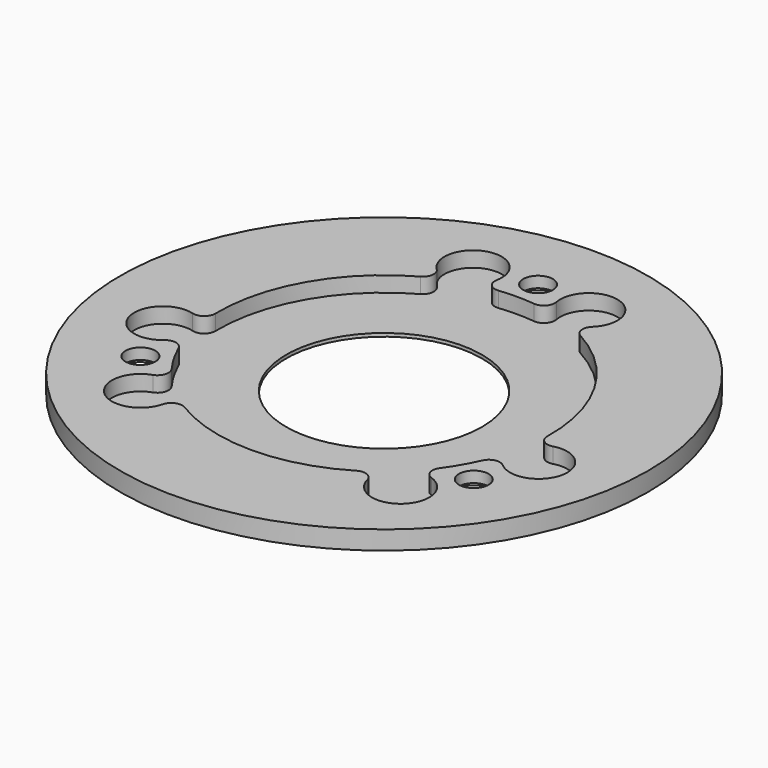
from build123d import *

# Parameters (mm, degrees)
SKETCH_W         = 15.1
SKETCH_H         = 1.7
POCKET_DEPTH     = 5.2
HOLE_D           = 2.7
HOLE_CBORE_D     = 4.7
HOLE_CBORE_DEPTH = 0.7


with BuildPart() as part:
    # Sketch → Revolution (revolve)
    with BuildSketch(Plane.XZ):
        with Locations((16.45, 0.85)):
            Rectangle(SKETCH_W, SKETCH_H)
    revolve(axis=Axis((0, 0, 0), (0, 0, 1)))

    # Sketch001 → Pocket (cut)
    with BuildSketch(Plane.XY.offset(0.3)):
        with BuildLine():
            ThreePointArc((-16.371276, -1.287625), (-19.62355, -4.350436), (-15.381589, -5.751816))
            ThreePointArc((-13.811681, -6.103071), (-14.508018, -5.531376), (-15.381589, -5.751816))
            ThreePointArc((-13.811681, -6.103071), (-13.076984, -7.55), (-12.191255, -8.909731))
            ThreePointArc((-12.672013, -10.444939), (-12.044321, -9.798624), (-12.191255, -8.909731))
            ThreePointArc((-12.672013, -10.444939), (-13.579363, -14.819274), (-9.300754, -13.534129))
            ThreePointArc((-7.813289, -12.921398), (-8.711606, -12.852495), (-9.300754, -13.534129))
            ThreePointArc((-7.813289, -12.921398), (0, -15.1), (7.813289, -12.921398))
            ThreePointArc((9.300754, -13.534129), (8.711606, -12.852495), (7.813289, -12.921398))
            ThreePointArc((9.300754, -13.534129), (13.579363, -14.819274), (12.672013, -10.444939))
            ThreePointArc((12.191255, -8.909731), (12.044321, -9.798624), (12.672013, -10.444939))
            ThreePointArc((12.191255, -8.909731), (13.076984, -7.55), (13.811681, -6.103071))
            ThreePointArc((15.381589, -5.751816), (14.508018, -5.531376), (13.811681, -6.103071))
            ThreePointArc((15.381589, -5.751816), (19.62355, -4.350436), (16.371276, -1.287625))
            ThreePointArc((15.096903, -0.305808), (15.48639, -1.118224), (16.371276, -1.287625))
            ThreePointArc((15.096903, -0.305808), (13.076984, 7.55), (7.283614, 13.227206))
            ThreePointArc((7.070522, 14.821754), (6.774784, 13.970719), (7.283614, 13.227206))
            ThreePointArc((7.070522, 14.821754), (6.044187, 19.169711), (2.709576, 16.196755))
            ThreePointArc((1.620426, 15.012802), (2.463697, 15.33), (2.709576, 16.196755))
            ThreePointArc((1.620426, 15.012802), (0, 15.1), (-1.620426, 15.012802))
            ThreePointArc((-2.709576, 16.196755), (-2.463697, 15.33), (-1.620426, 15.012802))
            ThreePointArc((-2.709576, 16.196755), (-6.044187, 19.169711), (-7.070522, 14.821754))
            ThreePointArc((-7.283614, 13.227206), (-6.774784, 13.970719), (-7.070522, 14.821754))
            ThreePointArc((-7.283614, 13.227206), (-13.076984, 7.55), (-15.096903, -0.305808))
            ThreePointArc((-16.371276, -1.287625), (-15.48639, -1.118224), (-15.096903, -0.305808))
        make_face()
    extrude(amount=POCKET_DEPTH, mode=Mode.SUBTRACT)

    # Hole (through all)
    with Locations(Plane(origin=(0, 0, 0), x_dir=(1, 0, 0), z_dir=(0, 0, -1))):
        with Locations((0, -17.5), (-15.155445, 8.75), (15.155445, 8.75)):
            CounterBoreHole(HOLE_D / 2, HOLE_CBORE_D / 2, HOLE_CBORE_DEPTH)


solid = part.part
